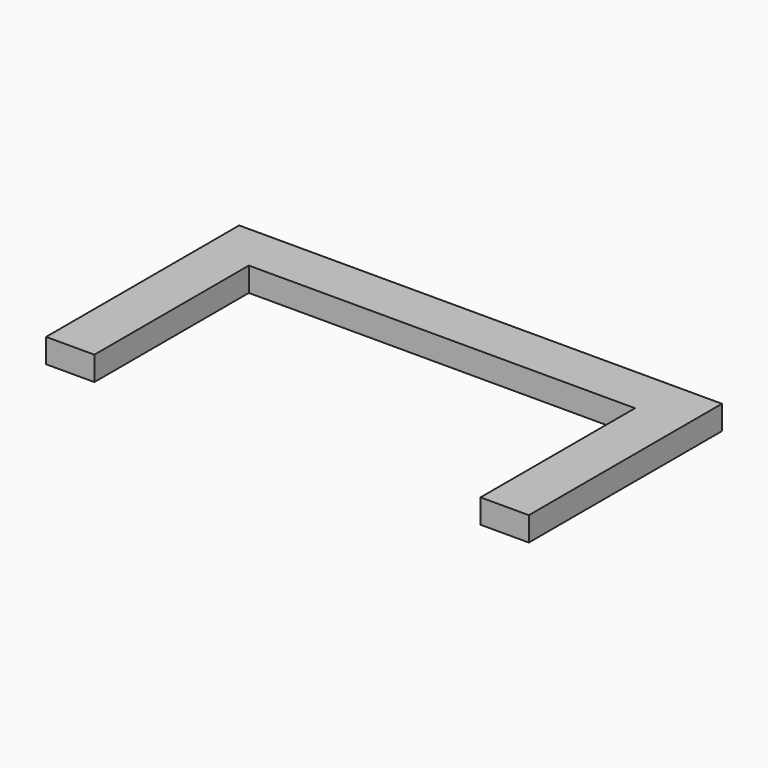
from build123d import *

# Parameters (mm, degrees)
F1_DEPTH = 3.175


with BuildPart() as f1:
    # F0 (on Top) → F1 (new body)
    with BuildSketch(Plane.XY):
        Polygon((-84.996348, -31.442522), (-84.996348, -63.192522), (-78.646348, -63.192522), (-78.646348, -37.792522), (-27.846348, -37.792522), (-27.846348, -31.442522), align=None)
        Polygon((-21.496348, -31.442522), (-27.846348, -31.442522), (-27.846348, -37.792522), (-27.846348, -63.192522), (-21.496348, -63.192522), align=None)
    extrude(amount=F1_DEPTH)


solid = f1.part
